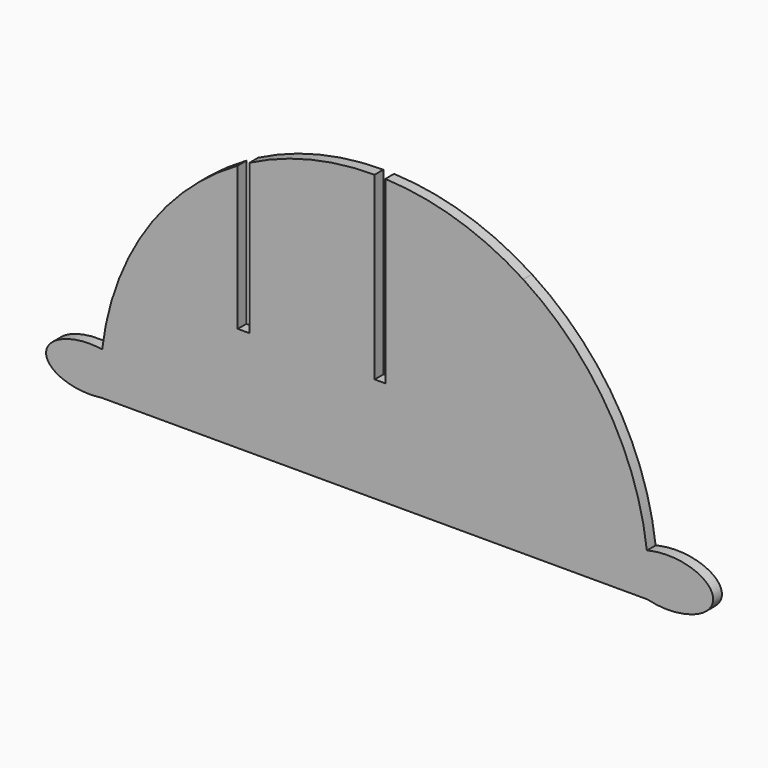
from build123d import *

# Parameters (mm, degrees)
F1_DEPTH = 3


with BuildPart() as f1:
    # F0 (on Front) → F1 (new body)
    with BuildSketch(Plane.XZ):
        with BuildLine():
            ThreePointArc((68.8475920005, 11.742586707), (69.3023923759, 5.880099635), (69.297260746, 0))
            Line((69.297260746, 0), (69.0229559835, 0))
            add(Edge.make_bspline(
                [(69.0229559835, 0), (87.173137579, -4.7312496306), (87.0136775004, 5.946392192), (86.8542174218, 16.6240340145), (68.8475920005, 11.742586707)],
                knots=[4.2533519881, 4.2533519881, 4.2533519881, 6.2910614921, 6.2910614921, 8.3287709961, 8.3287709961, 8.3287709961], degree=2, weights=[1, 0.5243414828, 1, 0.5243414828, 1]))
        make_face()
        with BuildLine():
            Line((69.0229559835, 0), (69.297260746, 0))
            ThreePointArc((69.297260746, 0), (69.3023923759, 5.880099635), (68.8475920005, 11.742586707))
            ThreePointArc((68.8475920005, 11.742586707), (57.9963563945, 42.7273439173), (34.9673422396, 66.125399405))
            ThreePointArc((34.9673422396, 66.125399405), (16.8821701876, 74.6314675421), (-2.8058656026, 78.0677285954))
            Line((-2.8058656026, 78.0677285954), (-2.8058656026, 28.749975026))
            Line((-2.8058656026, 28.749975026), (-5.7326601818, 28.749975026))
            Line((-5.7326601818, 28.749975026), (-5.7326601818, 78.1259486789))
            ThreePointArc((-5.7326601818, 78.1259486789), (-23.3752291463, 76.0321484038), (-40.0326607406, 69.853620105))
            Line((-40.0326607406, 69.853620105), (-40.0326607406, 28.749975026))
            Line((-40.0326607406, 28.749975026), (-43.2326607406, 28.749975026))
            Line((-43.2326607406, 28.749975026), (-43.2326607406, 68.1139099124))
            ThreePointArc((-43.2326607406, 68.1139099124), (-68.4925924519, 44.334367415), (-80.3738208713, 11.7403924705))
            add(Edge.make_bspline(
                [(-80.3738208713, 11.7403924705), (-95.5136706819, 14.1090875338), (-95.7413444571, 5.9825138382), (-95.9690182324, -2.1440598573), (-80.702739254, 0)],
                knots=[1.2750591683, 1.2750591683, 1.2750591683, 3.1272069486, 3.1272069486, 4.9793547288, 4.9793547288, 4.9793547288], degree=2, weights=[1, 0.6009766146, 1, 0.6009766146, 1]))
            Line((-80.702739254, 0), (69.0229559835, 0))
        make_face()
    extrude(amount=F1_DEPTH)


solid = f1.part
